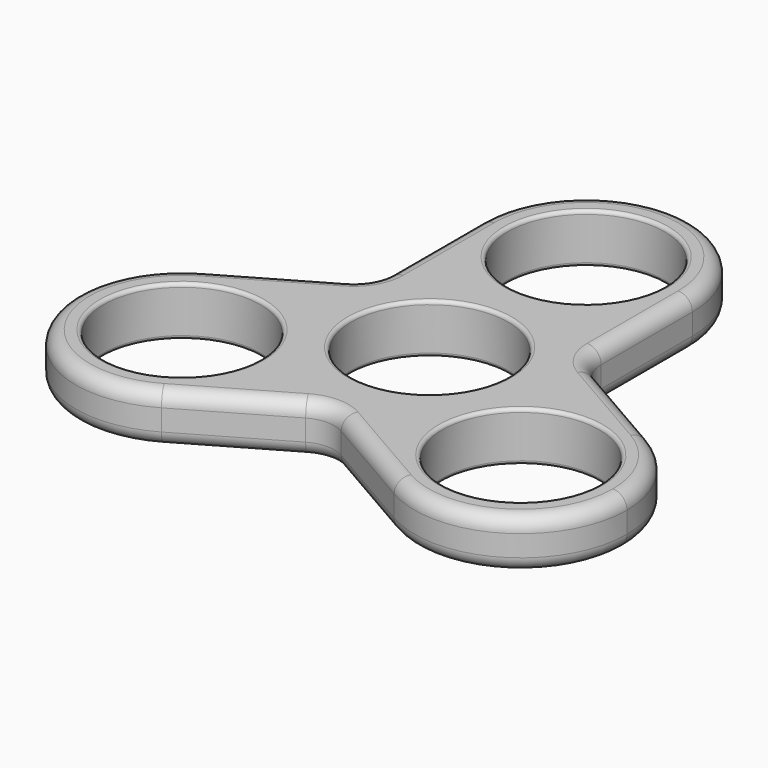
from build123d import *

# Parameters (mm, degrees)
F0_R     = 11.1
F1_DEPTH = 7
F2_R     = 5
F3_R     = 0.5
F4_R     = 2


with BuildPart() as f1:
    # F0 (on Top) → F1 (new body)
    with BuildSketch(Plane.XY):
        with BuildLine():
            ThreePointArc((-8.9356113423, -13.8192316517), (-16.4356113423, -0.828850595), (-31.4356113423, -0.828850595))
            ThreePointArc((-31.4356113423, -0.828850595), (-36.9259923991, -21.3192316517), (-16.4356113423, -26.8096127085))
            ThreePointArc((-16.4356113423, -26.8096127085), (-10.9452302856, -21.3192316517), (-8.9356113423, -13.8192316517))
        make_face()
        with Locations((-23.9356113423, -13.8192316517)):
            Circle(F0_R, mode=Mode.SUBTRACT)
        with BuildLine():
            Line((31.4356113423, -0.828850595), (15, 8.6602540378))
            Line((15, 8.6602540378), (15, 0))
            Line((15, 0), (11.1, 0))
            ThreePointArc((11.1, 0), (0, -11.1), (-11.1, 0))
            Line((-11.1, 0), (-15, 0))
            Line((-15, 0), (-15, 8.6602540378))
            Line((-15, 8.6602540378), (-31.4356113423, -0.828850595))
            ThreePointArc((-31.4356113423, -0.828850595), (-16.4356113423, -0.828850595), (-8.9356113423, -13.8192316517))
            ThreePointArc((-8.9356113423, -13.8192316517), (-10.9452302856, -21.3192316517), (-16.4356113423, -26.8096127085))
            Line((-16.4356113423, -26.8096127085), (0, -17.3205080757))
            Line((0, -17.3205080757), (16.4356113423, -26.8096127085))
            ThreePointArc((16.4356113423, -26.8096127085), (10.9452302856, -6.3192316517), (31.4356113423, -0.828850595))
        make_face()
        with BuildLine():
            ThreePointArc((38.9356113423, -13.8192316517), (36.9259923991, -6.3192316517), (31.4356113423, -0.828850595))
            ThreePointArc((31.4356113423, -0.828850595), (10.9452302856, -6.3192316517), (16.4356113423, -26.8096127085))
            ThreePointArc((16.4356113423, -26.8096127085), (31.4356113423, -26.8096127085), (38.9356113423, -13.8192316517))
        make_face()
        with Locations((23.9356113423, -13.8192316517)):
            Circle(F0_R, mode=Mode.SUBTRACT)
        with BuildLine():
            Line((15, 8.6602540378), (15, 27.6384633034))
            ThreePointArc((15, 27.6384633034), (0, 12.6384633034), (-15, 27.6384633034))
            Line((-15, 27.6384633034), (-15, 8.6602540378))
            Line((-15, 8.6602540378), (-15, 0))
            Line((-15, 0), (-11.1, 0))
            ThreePointArc((-11.1, 0), (0, 11.1), (11.1, 0))
            Line((11.1, 0), (15, 0))
            Line((15, 0), (15, 8.6602540378))
        make_face()
        with BuildLine():
            ThreePointArc((-15, 27.6384633034), (0, 12.6384633034), (15, 27.6384633034))
            ThreePointArc((15, 27.6384633034), (0, 42.6384633034), (-15, 27.6384633034))
        make_face()
        with Locations((0, 27.6384633034)):
            Circle(F0_R, mode=Mode.SUBTRACT)
    extrude(amount=F1_DEPTH)

    # F2
    f2_edges = [f1.edges().sort_by_distance(p)[0] for p in [
        (-15, 8.660254, 3.5),
        (15, 8.660254, 3.5),
        (0, -17.320508, 3.5),
    ]]
    fillet(f2_edges, radius=F2_R)

    # F3
    f3_edges = [f1.edges().sort_by_distance(p)[0] for p in [
        (-11.1, 27.638463, 7),
        (11.1, 0, 7),
        (-35.035611, -13.819232, 7),
        (12.835611, -13.819232, 7),
        (-35.035611, -13.819232, 0),
        (-11.1, 27.638463, 0),
        (12.835611, -13.819232, 0),
        (11.1, 0, 0),
    ]]
    fillet(f3_edges, radius=F3_R)

    # F4
    f4_edges = [f1.edges().sort_by_distance(p)[0] for p in [
        (-9.467806, -22.786748, 0),
        (-2.5, -18.763884, 3.5),
        (-16.435611, -26.809613, 3.5),
        (-9.467806, -22.786748, 7),
        (0, -18.094011, 0),
        (2.5, -18.763884, 3.5),
        (0, -18.094011, 7),
        (9.467806, -22.786748, 0),
        (16.435611, -26.809613, 3.5),
        (9.467806, -22.786748, 7),
        (31.435611, -0.828851, 3.5),
        (36.925992, -21.319232, 0),
        (36.925992, -21.319232, 7),
        (-31.435611, -0.828851, 3.5),
        (-36.925992, -21.319232, 0),
        (-36.925992, -21.319232, 7),
        (-24.467806, 3.194014, 0),
        (-17.5, 7.216878, 3.5),
        (-24.467806, 3.194014, 7),
        (-15.669873, 9.047005, 0),
        (-15, 11.547005, 3.5),
        (-15.669873, 9.047005, 7),
        (-15, 19.592734, 0),
        (-15, 27.638463, 3.5),
        (-15, 19.592734, 7),
        (15, 19.592734, 0),
        (15, 11.547005, 3.5),
        (15, 27.638463, 3.5),
        (15, 19.592734, 7),
        (15.669873, 9.047005, 0),
        (17.5, 7.216878, 3.5),
        (15.669873, 9.047005, 7),
        (24.467806, 3.194014, 0),
        (24.467806, 3.194014, 7),
    ]]
    fillet(f4_edges, radius=F4_R)


solid = f1.part
